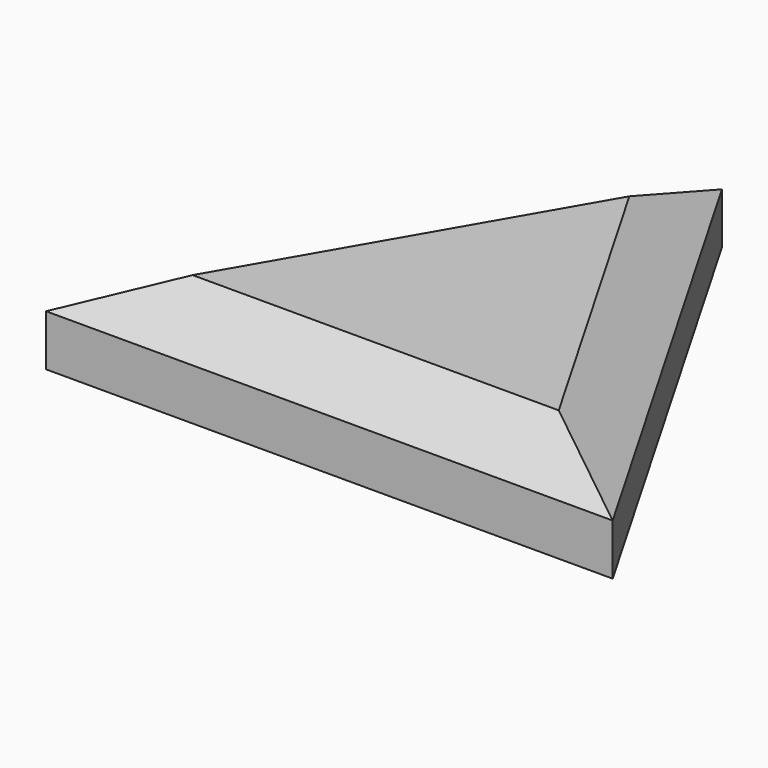
from build123d import *

# Parameters (mm, degrees)
F1_DEPTH = 26
F2_SIZE2 = 16.336822
F2_SIZE  = 11.55


with BuildPart() as f1:
    # F0 (on Top) → F1 (new body)
    with BuildSketch(Plane.XY):
        Polygon((0, 92.376043), (-80, -46.188022), (80, -46.188022), align=None)
    extrude(amount=F1_DEPTH)

    # F2
    f2_edges = [f1.edges().sort_by_distance(p)[0] for p in [
        (-40, 23.094011, 26),
        (40, 23.094011, 26),
        (0, -46.188022, 26),
    ]]
    chamfer(f2_edges, length=F2_SIZE, length2=F2_SIZE2)


solid = f1.part
